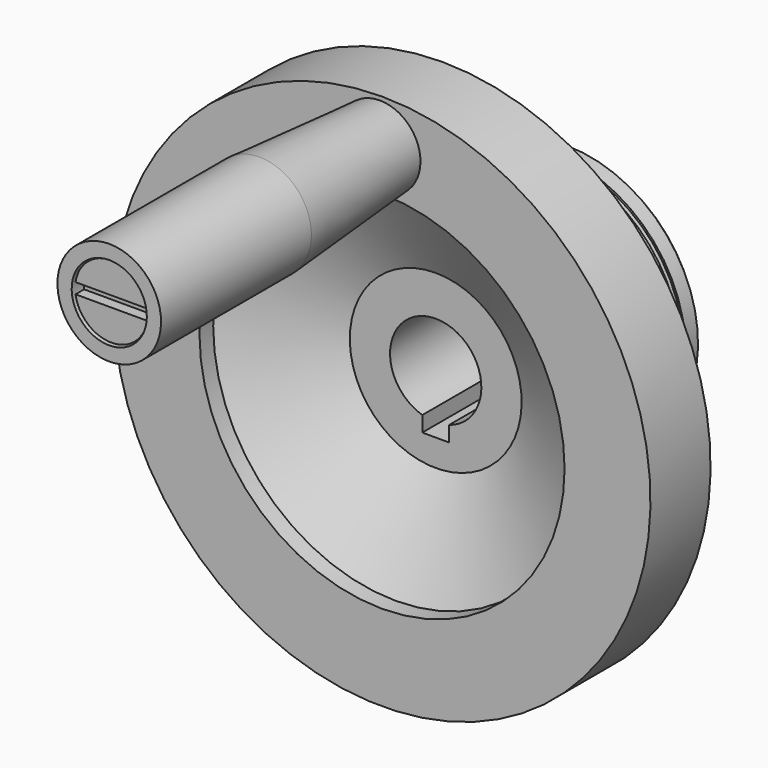
from build123d import *

# Parameters (mm, degrees)
F3_D      = 6.8
F4_W      = 5
F4_H      = 2.8759615954
F5_DEPTH  = 31.5
F9_DEPTH  = 4.75
F12_W     = 13.5
F12_H     = 2
F13_DEPTH = 2


with BuildPart() as f1:
    # F0 (on Right) → F1 (revolve)
    with BuildSketch(Plane.YZ):
        with BuildLine():
            Line((-31.5, 8.5), (0, 8.5))
            Line((0, 8.5), (0, 19.2))
            Line((0, 19.2), (-8, 19.2))
            Line((-8, 19.2), (-8, 17.5))
            Line((-8, 17.5), (-14, 17.5))
            Line((-14, 17.5), (-14, 19.2))
            Line((-14, 19.2), (-23, 19.2))
            Line((-23, 19.2), (-23, 24.5))
            Line((-23, 24.5), (-25.8, 24.5))
            Line((-25.8, 24.5), (-32.3, 31))
            ThreePointArc((-32.3, 31), (-31.6840076505, 33.307054399), (-30, 35))
            Line((-30, 35), (-30, 50))
            Line((-30, 50), (-44, 50))
            Line((-44, 50), (-44, 34))
            Line((-44, 34), (-40.8, 34))
            Line((-40.8, 34), (-31.5, 16))
            Line((-31.5, 16), (-31.5, 8.5))
        make_face()
    revolve(axis=Axis((0, -15.75, 0), (0, 1, 0)))

    # F3 (through all)
    with Locations(Plane.XZ.offset(44)):
        with Locations((0, 42)):
            Hole(F3_D / 2)

    # F4 (on Front) → F5 (cut, through all)
    with BuildSketch(Plane.XZ):
        with Locations((0, -9.5620192023)):
            Rectangle(F4_W, F4_H)
    extrude(amount=F5_DEPTH, mode=Mode.SUBTRACT)


with BuildPart() as f7:
    # F6 (on Right) → F7 (revolve)
    with BuildSketch(Plane.YZ):
        Polygon((-22.9, 24.5), (-22.9, 19.325), (-0.05, 19.325), (-0.05, 23.5), (-1.05, 24.5), (-3.95, 24.5), (-3.95, 24.125), (-5.05, 24.125), (-5.05, 24.5), align=None)
    revolve(axis=Axis((0, -11.45, 0), (0, -1, 0)))


with BuildPart() as f9:
    # F8 (on face) → F9 (new body)
    with BuildSketch(Plane(origin=(0, -14, 0), x_dir=(-1, 0, 0), z_dir=(0, 1, 0))):
        with BuildLine():
            Line((-5.1, 17.0679892012), (-4.7739700856, 16.8362468983))
            ThreePointArc((-4.7739700856, 16.8362468983), (0, 19.3), (4.7739700856, 16.8362468983))
            Line((4.7739700856, 16.8362468983), (5.1, 17.0679892012))
            ThreePointArc((5.1, 17.0679892012), (0, 19.7), (-5.1, 17.0679892012))
        make_face()
    extrude(amount=F9_DEPTH)


with BuildPart() as f11:
    # F10 (on Right) → F11 (revolve)
    with BuildSketch(Plane.YZ):
        Polygon((-102, 48.75), (-107, 48.75), (-107, 42), (-31, 42), (-31, 46), (-41, 46), (-41, 45), (-44, 45), (-44, 46.65), (-102, 46.65), align=None)
    revolve(axis=Axis((0, -69, 42), (0, 1, 0)))

    # F12 (on face) → F13 (cut)
    with BuildSketch(Plane.XZ.offset(107)):
        with Locations((0, 42)):
            Rectangle(F12_W, F12_H)
    extrude(amount=-F13_DEPTH, mode=Mode.SUBTRACT)


with BuildPart() as f15:
    # F14 (on Right) → F15 (revolve)
    with BuildSketch(Plane.YZ):
        Polygon((-101.5, 49), (-101.5, 46.86), (-44.5, 46.86), (-44.5, 49.56), (-72.5, 51.65), (-107.5, 51.65), (-107.5, 49), align=None)
    revolve(axis=Axis((0, -73, 42), (0, -1, 0)))


solid = Compound([f1.part, f7.part, f9.part, f11.part, f15.part])
